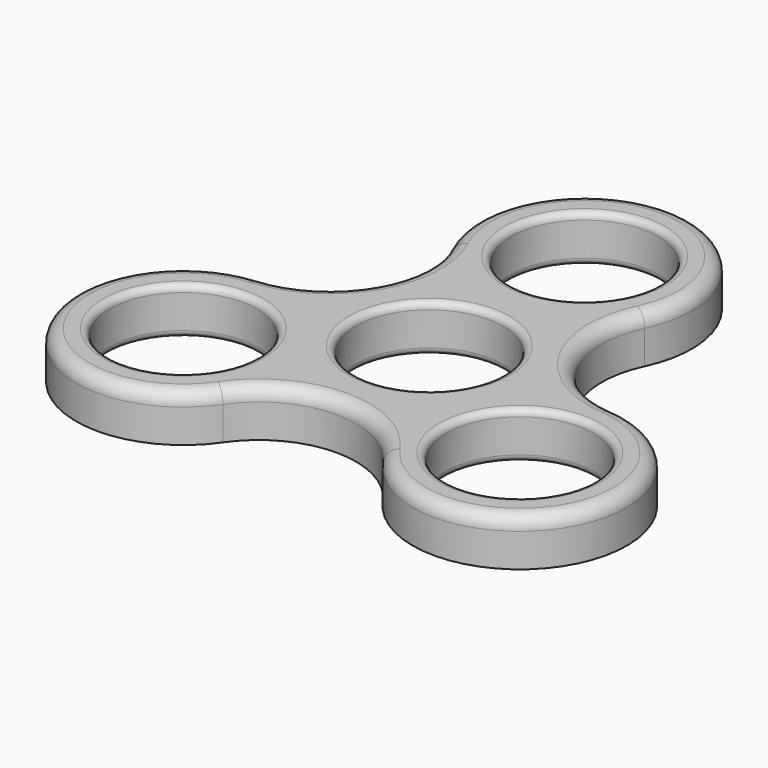
from build123d import *

# Parameters (mm, degrees)
F0_R     = 11
F1_DEPTH = 7
F2_R     = 1
F3_R     = 2


with BuildPart() as f1:
    # F0 (on Top) → F1 (new body)
    with BuildSketch(Plane.XY):
        with BuildLine():
            ThreePointArc((26.389557, 1.449133), (14.987495, 8.653034), (14.449764, 22.129461))
            ThreePointArc((14.449764, 22.129461), (0, 45), (-14.449764, 22.129461))
            ThreePointArc((-14.449764, 22.129461), (-14.987495, 8.653034), (-26.389557, 1.449133))
            ThreePointArc((-26.389557, 1.449133), (-38.971143, -22.5), (-11.939793, -23.578593))
            ThreePointArc((-11.939793, -23.578593), (0, -17.306068), (11.939793, -23.578593))
            ThreePointArc((11.939793, -23.578593), (38.971143, -22.5), (26.389557, 1.449133))
        make_face()
        with Locations((-25.114737, -14.5)):
            Circle(F0_R, mode=Mode.SUBTRACT)
        with Locations((25.114737, -14.5)):
            Circle(F0_R, mode=Mode.SUBTRACT)
        Circle(F0_R, mode=Mode.SUBTRACT)
        with Locations((0, 29)):
            Circle(F0_R, mode=Mode.SUBTRACT)
    extrude(amount=F1_DEPTH)

    # F2
    f2_edges = [f1.edges().sort_by_distance(p)[0] for p in [
        (-11, 29, 7),
        (-11, 0, 7),
        (14.114737, -14.5, 7),
        (-36.114737, -14.5, 7),
        (-36.114737, -14.5, 0),
        (-11, 0, 0),
        (14.114737, -14.5, 0),
        (-11, 29, 0),
    ]]
    fillet(f2_edges, radius=F2_R)

    # F3
    f3_edges = [f1.edges().sort_by_distance(p)[0] for p in [
        (-14.987495, 8.653034, 7),
    ]]
    fillet(f3_edges, radius=F3_R)


solid = f1.part
